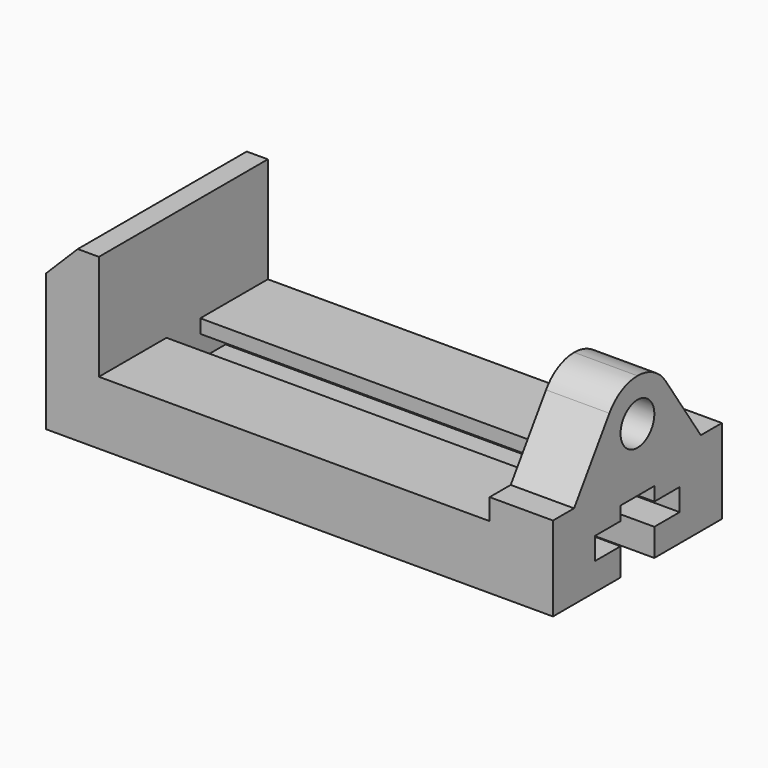
from build123d import *

# Parameters (mm, degrees)
F0_W     = 38.1
F0_H     = 50.8
F1_DEPTH = 127
F2_W     = 25.4
F2_H     = 8.255
F3_DEPTH = 273.05
F5_DEPTH = 38.1
F4_R     = 12.7
F6_DEPTH = 38.1
F2_H_2   = 16.51
F7_DEPTH = 38.1


with BuildPart() as f1:
    # F0 (on Front) → F1 (new body)
    with BuildSketch(Plane.XZ):
        Polygon((0, 82.55), (0, 0), (304.8, 0), (304.8, 50.8), (266.7, 50.8), (266.7, 38.1), (31.75, 38.1), (31.75, 101.6), (19.05, 101.6), align=None)
        with Locations((285.75, 76.2)):
            Rectangle(F0_W, F0_H)
    extrude(amount=F1_DEPTH)

    # F2 (on face) → F3 (cut)
    with BuildSketch(Plane.YZ.offset(304.8)):
        with Locations((-63.5, 33.9725)):
            Rectangle(F2_W, F2_H)
        Polygon((-31.75, 29.845), (-50.8, 29.845), (-76.2, 29.845), (-95.25, 29.845), (-95.25, 16.51), (-76.2, 16.51), (-50.8, 16.51), (-31.75, 16.51), align=None)
        with Locations((-63.5, 33.9725)):
            Rectangle(F2_W, F2_H)
    extrude(amount=-F3_DEPTH, mode=Mode.SUBTRACT)

    # F4 (on face) → F5 (cut, through all)
    with BuildSketch(Plane.YZ.offset(304.8)):
        with BuildLine():
            Line((0, 101.6), (-63.5, 101.6))
            ThreePointArc((-63.5, 101.6), (-51.547059, 98.611765), (-42.406574, 90.350173))
            Line((-42.406574, 90.350173), (-15.875, 50.8))
            Line((-15.875, 50.8), (0, 50.8))
            Line((0, 50.8), (0, 101.6))
        make_face()
        with BuildLine():
            Line((-127, 101.6), (-127, 50.8))
            Line((-127, 50.8), (-111.125, 50.8))
            Line((-111.125, 50.8), (-84.593426, 90.350173))
            ThreePointArc((-84.593426, 90.350173), (-75.452941, 98.611765), (-63.5, 101.6))
            Line((-63.5, 101.6), (-127, 101.6))
        make_face()
    extrude(amount=-F5_DEPTH, mode=Mode.SUBTRACT)

    # F4 (on face) → F6 (cut, through all)
    with BuildSketch(Plane.YZ.offset(304.8)):
        with Locations((-63.5, 76.2)):
            Circle(F4_R)
    extrude(amount=-F6_DEPTH, mode=Mode.SUBTRACT)

    # F2 (on face) → F7 (cut)
    with BuildSketch(Plane.YZ.offset(304.8)):
        with Locations((-63.5, 8.255)):
            Rectangle(F2_W, F2_H_2)
    extrude(amount=-F7_DEPTH, mode=Mode.SUBTRACT)


solid = f1.part
